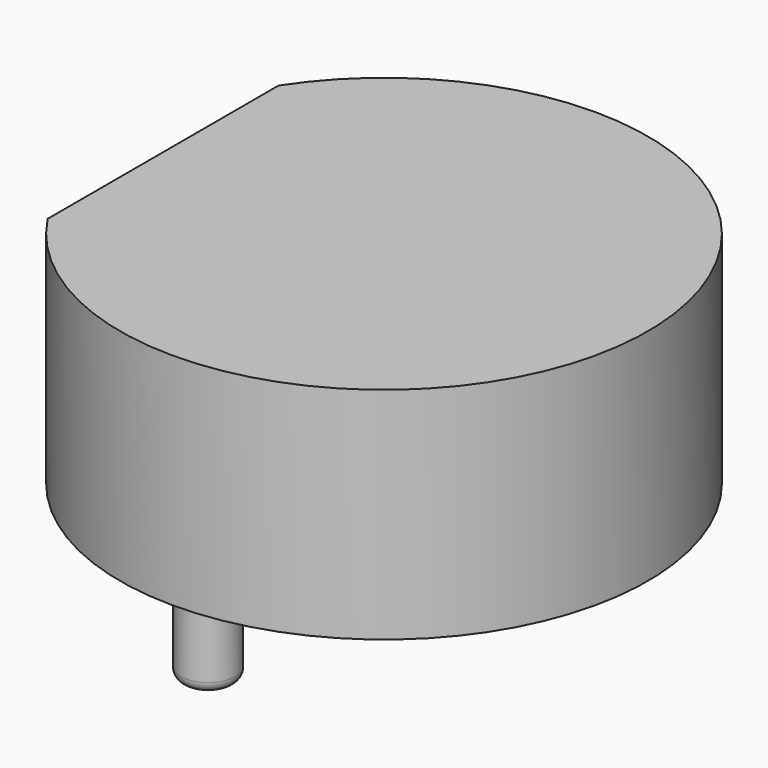
from build123d import *

# Parameters (mm, degrees)
PAD002_DEPTH  = 4
SKETCH006_R   = 1.5
SKETCH006_R_2 = 0.5
PAD003_DEPTH  = 1.5
FILLET_R      = 0.2


with BuildPart() as part:
    # Sketch005 (on Face1 of CopyPocket002) → Pad002 (new body)
    with BuildSketch(Plane(origin=(0, 0, -1.8), x_dir=(1, 0, 0), z_dir=(0, 0, -1))):
        with BuildLine():
            ThreePointArc((-4.018628, -2.625), (4.8, 0), (-4.018628, 2.625))
            Line((-4.018628, 2.625), (-4.018628, -2.625))
        make_face()
    extrude(amount=PAD002_DEPTH)

    # Sketch006 (on Face4 of Pad002) → Pad003 (join)
    with BuildSketch(Plane(origin=(0, 0, -5.8), x_dir=(1, 0, 0), z_dir=(0, 0, -1))):
        Circle(SKETCH006_R)
        with Locations((0, 4)):
            Circle(SKETCH006_R_2)
        with Locations((0, -4)):
            Circle(SKETCH006_R_2)
    extrude(amount=PAD003_DEPTH)

    # Fillet
    fillet_edges = [part.edges().sort_by_distance(p)[0] for p in [
        (-0.5, -4, -7.3),
        (-0.5, 4, -7.3),
        (-1.5, 0, -7.3),
    ]]
    fillet(fillet_edges, radius=FILLET_R)


solid = part.part
